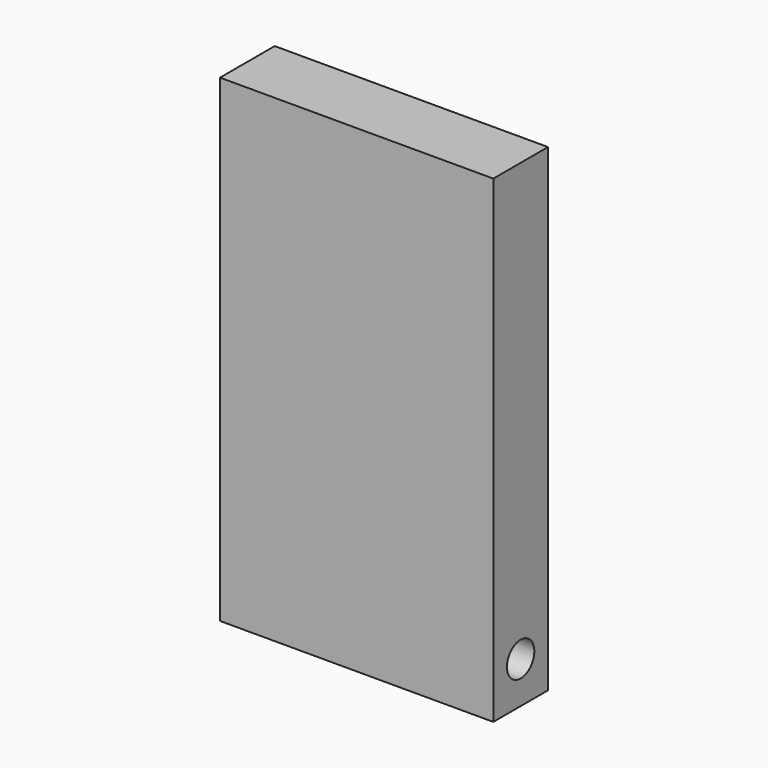
from build123d import *

# Parameters (mm, degrees)
F0_W          = 50.8
F0_H          = 355.6
F0_R          = 12.7
F1_DEPTH      = 101.6
F1_DEPTH_BACK = 101.6
F2_W          = 101.6
F2_H          = 305.054
F3_DEPTH      = 38.1
F4_R          = 9.525
F5_DEPTH      = 101.6


with BuildPart() as f1:
    # F0 (on Right) → F1 (new body, two sides)
    with BuildSketch(Plane.YZ) as f1_sk:
        with Locations((0, 127.68995)):
            Rectangle(F0_W, F0_H)
        with Locations((0, -19.287717)):
            Circle(F0_R, mode=Mode.SUBTRACT)
    extrude(amount=F1_DEPTH)
    extrude(f1_sk.sketch, amount=-F1_DEPTH_BACK)

    # F2 (on face) → F3 (cut)
    with BuildSketch(Plane(origin=(0, 25.4, 0), x_dir=(-1, 0, 0), z_dir=(0, 1, 0))):
        with Locations((0, 146.61295)):
            Rectangle(F2_W, F2_H)
    extrude(amount=-F3_DEPTH, mode=Mode.SUBTRACT)

    # F4 (on face) → F5 (join, through all)
    with BuildSketch(Plane.YZ.offset(-50.8)):
        with Locations((6.35, 276.91495)):
            Circle(F4_R)
    extrude(amount=F5_DEPTH)


solid = f1.part
